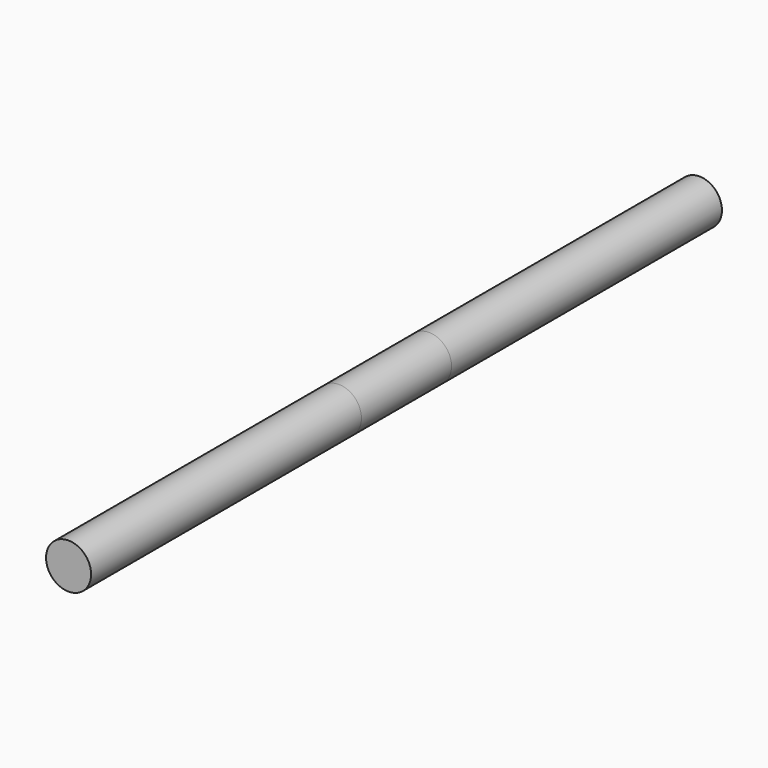
from build123d import *

# Parameters (mm, degrees)
F0_R     = 2
F1_DEPTH = 20
F2_DEPTH = 30
F3_DEPTH = 40
F4_DEPTH = 10


with BuildPart() as f1:
    # F0 (on Front) → F1 (new body)
    with BuildSketch(Plane.XZ):
        Circle(F0_R)
    extrude(amount=F1_DEPTH)


with BuildPart() as f2:
    # F0 (on Front) → F2 (new body)
    with BuildSketch(Plane.XZ):
        Circle(F0_R)
    extrude(amount=-F2_DEPTH)


with BuildPart() as f3:
    # F0 (on Front) → F3 (new body)
    with BuildSketch(Plane.XZ):
        Circle(F0_R)
    extrude(amount=F3_DEPTH)


with BuildPart() as f4:
    # F0 (on Front) → F4 (new body)
    with BuildSketch(Plane.XZ):
        Circle(F0_R)
    extrude(amount=F4_DEPTH)


solid = Compound([f1.part, f2.part, f3.part, f4.part])
